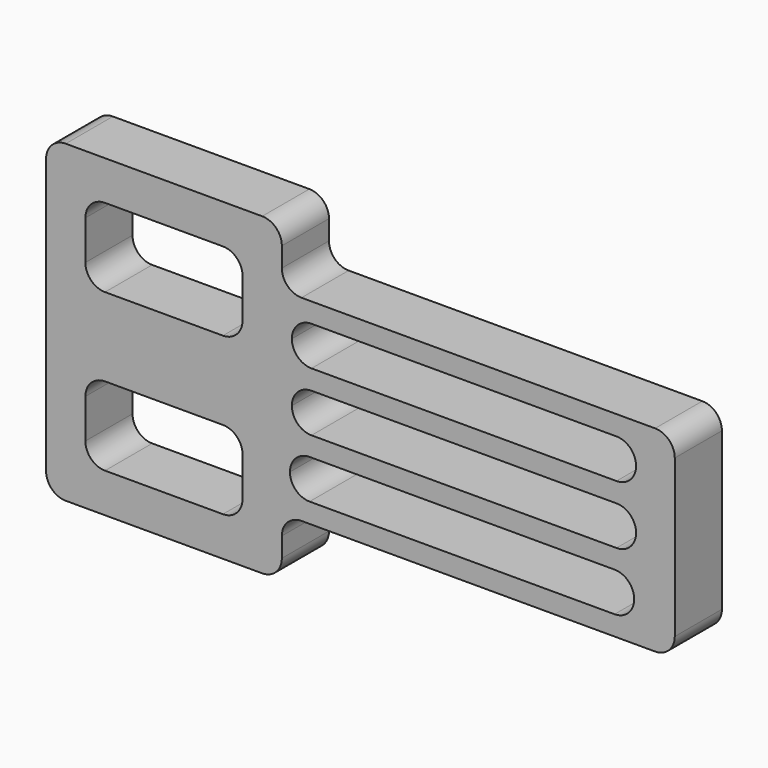
from build123d import *

# Parameters (mm, degrees)
F1_DEPTH = 30


with BuildPart() as f1:
    # F0 (on Front) → F1 (new body)
    with BuildSketch(Plane.XZ):
        with BuildLine():
            Line((211.123637, 0), (211.123637, 80))
            ThreePointArc((211.123637, 80), (208.194705, 87.071068), (201.123637, 90))
            Line((201.123637, 90), (21.123637, 90))
            ThreePointArc((21.123637, 90), (14.052569, 92.928932), (11.123637, 100))
            Line((11.123637, 100), (11.123637, 110))
            ThreePointArc((11.123637, 110), (8.194705, 117.071068), (1.123637, 120))
            Line((1.123637, 120), (-98.876363, 120))
            ThreePointArc((-98.876363, 120), (-105.947431, 117.071068), (-108.876363, 110))
            Line((-108.876363, 110), (-108.876363, -30))
            ThreePointArc((-108.876363, -30), (-105.947431, -37.071068), (-98.876363, -40))
            Line((-98.876363, -40), (1.123637, -40))
            ThreePointArc((1.123637, -40), (8.194705, -37.071068), (11.123637, -30))
            Line((11.123637, -30), (11.123637, -20))
            ThreePointArc((11.123637, -20), (14.052569, -12.928932), (21.123637, -10))
            Line((21.123637, -10), (201.123637, -10))
            ThreePointArc((201.123637, -10), (208.194705, -7.071068), (211.123637, 0))
        make_face()
        with BuildLine():
            ThreePointArc((-88.876363, 10), (-85.947431, 17.071068), (-78.876363, 20))
            Line((-78.876363, 20), (-18.876363, 20))
            ThreePointArc((-18.876363, 20), (-11.805295, 17.071068), (-8.876363, 10))
            Line((-8.876363, 10), (-8.876363, -10))
            ThreePointArc((-8.876363, -10), (-11.805295, -17.071068), (-18.876363, -20))
            Line((-18.876363, -20), (-78.876363, -20))
            ThreePointArc((-78.876363, -20), (-85.947431, -17.071068), (-88.876363, -10))
            Line((-88.876363, -10), (-88.876363, 10))
        make_face(mode=Mode.SUBTRACT)
        with BuildLine():
            ThreePointArc((15.246786, 10), (18.175718, 17.071068), (25.246786, 20))
            Line((25.246786, 20), (180.47985, 20))
            ThreePointArc((180.47985, 20), (187.550918, 17.071068), (190.47985, 10))
            ThreePointArc((190.47985, 10), (187.550918, 2.928932), (180.47985, 0))
            Line((180.47985, 0), (25.246786, 0))
            ThreePointArc((25.246786, 0), (18.175718, 2.928932), (15.246786, 10))
        make_face(mode=Mode.SUBTRACT)
        with BuildLine():
            ThreePointArc((-88.876363, 90), (-85.947431, 97.071068), (-78.876363, 100))
            Line((-78.876363, 100), (-18.876363, 100))
            ThreePointArc((-18.876363, 100), (-11.805295, 97.071068), (-8.876363, 90))
            Line((-8.876363, 90), (-8.876363, 70))
            ThreePointArc((-8.876363, 70), (-11.805295, 62.928932), (-18.876363, 60))
            Line((-18.876363, 60), (-78.876363, 60))
            ThreePointArc((-78.876363, 60), (-85.947431, 62.928932), (-88.876363, 70))
            Line((-88.876363, 70), (-88.876363, 90))
        make_face(mode=Mode.SUBTRACT)
        with BuildLine():
            ThreePointArc((16.214924, 40), (19.143856, 47.071068), (26.214924, 50))
            Line((26.214924, 50), (181.447988, 50))
            ThreePointArc((181.447988, 50), (188.519056, 47.071068), (191.447988, 40))
            ThreePointArc((191.447988, 40), (188.519056, 32.928932), (181.447988, 30))
            Line((181.447988, 30), (26.214924, 30))
            ThreePointArc((26.214924, 30), (19.143856, 32.928932), (16.214924, 40))
        make_face(mode=Mode.SUBTRACT)
        with BuildLine():
            ThreePointArc((16.214924, 70), (19.143856, 77.071068), (26.214924, 80))
            Line((26.214924, 80), (181.447988, 80))
            ThreePointArc((181.447988, 80), (188.519056, 77.071068), (191.447988, 70))
            ThreePointArc((191.447988, 70), (188.519056, 62.928932), (181.447988, 60))
            Line((181.447988, 60), (26.214924, 60))
            ThreePointArc((26.214924, 60), (19.143856, 62.928932), (16.214924, 70))
        make_face(mode=Mode.SUBTRACT)
    extrude(amount=F1_DEPTH)


solid = f1.part
